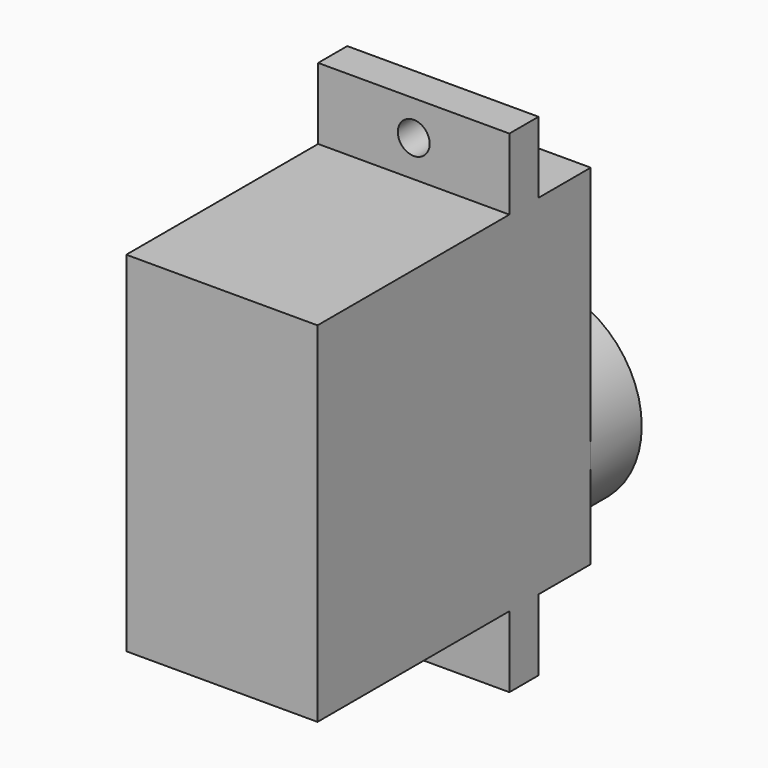
from build123d import *

# Parameters (mm, degrees)
F0_W      = 12.6
F0_H      = 23
F1_DEPTH  = 22.5
F3_W      = 12.6
F3_H      = 32.4
F4_DEPTH  = 2.4
F5_R      = 1.05
F6_DEPTH  = 25
F7_R      = 6.3
F8_DEPTH  = 4.2
F9_R      = 2.3
F10_DEPTH = 6.7


with BuildPart() as f1:
    # F0 (on Front) → F1 (new body)
    with BuildSketch(Plane.XZ):
        with Locations((0, 5.2)):
            Rectangle(F0_W, F0_H)
    extrude(amount=F1_DEPTH)

    # F3 (on offset) → F4 (join)
    with BuildSketch(Plane.XZ.offset(6.7)):
        with Locations((0, 5.2)):
            Rectangle(F3_W, F3_H)
    extrude(amount=-F4_DEPTH)

    # F5 (on offset) → F6 (cut)
    with BuildSketch(Plane.XZ.offset(6.7)):
        with Locations((0, 19.1)):
            Circle(F5_R)
        with Locations((0, -8.7)):
            Circle(F5_R)
    extrude(amount=-F6_DEPTH, mode=Mode.SUBTRACT)

    # F7 (on Front) → F8 (join)
    with BuildSketch(Plane.XZ):
        Circle(F7_R)
    extrude(amount=-F8_DEPTH)

    # F9 (on Front) → F10 (join)
    with BuildSketch(Plane.XZ):
        Circle(F9_R)
    extrude(amount=-F10_DEPTH)


solid = f1.part
